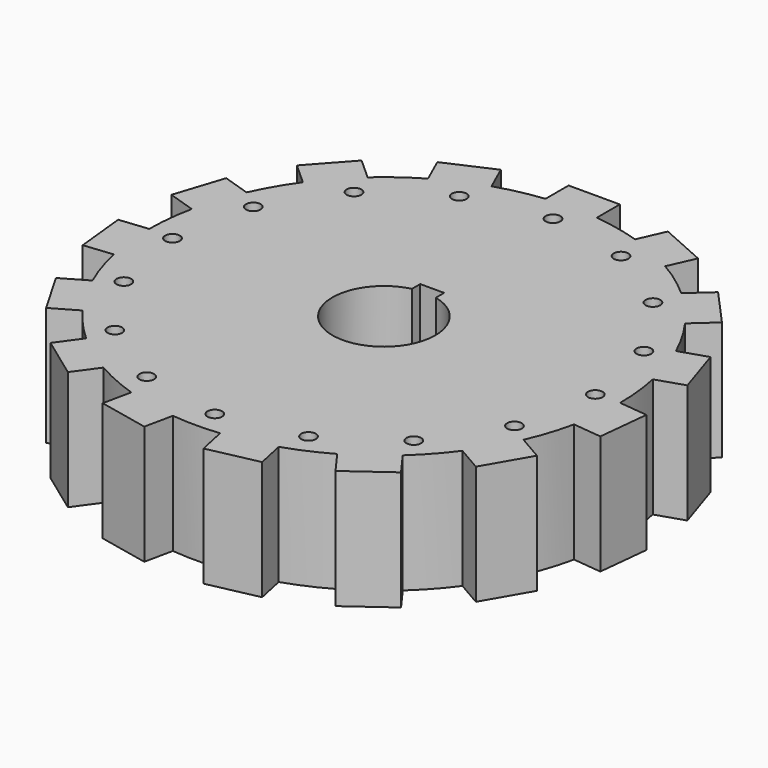
from build123d import *

# Parameters (mm, degrees)
F1_DEPTH = 25.4
F2_R     = 10.9774936207
F3_DEPTH = 49.53
F4_W     = 5.1103145815
F4_H     = 6.5123010427
F5_DEPTH = 48.514
F6_R     = 1.5645792589
F7_DEPTH = 173.3340956271


with BuildPart() as f1:
    # F0 (on Top) → F1 (new body)
    with BuildSketch(Plane.XY):
        with BuildLine():
            ThreePointArc((49.1194638074, -10.6610945165), (49.976383851, -5.3611303095), (50.2631143187, 0))
            ThreePointArc((50.2631143187, 0), (50.2629987037, 0.1078068731), (50.2626518594, 0.2156132503))
            Line((50.2626518594, 0.2156132503), (44.7324481381, 0.7968610833))
            Line((44.7324481381, 0.7968610833), (43.5892600861, -10.0798466835))
            Line((43.5892600861, -10.0798466835), (49.1194638074, -10.6610945165))
        make_face()
        with BuildLine():
            ThreePointArc((50.2626518594, 0.2156132503), (50.2629987037, 0.1078068731), (50.2631143187, 0))
            ThreePointArc((50.2631143187, 0), (49.976383851, -5.3611303095), (49.1194638074, -10.6610945165))
            Line((49.1194638074, -10.6610945165), (55.2430873006, -11.3047132808))
            Line((55.2430873006, -11.3047132808), (56.3862753526, -0.428005514))
            Line((56.3862753526, -0.428005514), (50.2626518594, 0.2156132503))
        make_face()
        with BuildLine():
            Line((44.7324481381, 0.7968610833), (50.2626518594, 0.2156132503))
            ThreePointArc((50.2626518594, 0.2156132503), (49.9877677193, 5.2539260988), (49.2091208382, 10.2392913496))
            Line((49.2091208382, 10.2392913496), (43.9206135564, 8.5209511701))
            Line((43.9206135564, 8.5209511701), (40.5410122038, 18.9222946152))
            Line((40.5410122038, 18.9222946152), (45.8295194856, 20.6406347948))
            ThreePointArc((45.8295194856, 20.6406347948), (43.5291338733, 25.1315571593), (40.7900738253, 29.3692107204))
            Line((40.7900738253, 29.3692107204), (36.6576939366, 25.648399156))
            Line((36.6576939366, 25.648399156), (29.3396669559, 33.7758915046))
            Line((29.3396669559, 33.7758915046), (33.4720468446, 37.496703069))
            ThreePointArc((33.4720468446, 37.496703069), (29.5439173308, 40.663713674), (25.3180524818, 43.4209267467))
            Line((25.3180524818, 43.4209267467), (23.0563260104, 38.3410059194))
            Line((23.0563260104, 38.3410059194), (13.0652267488, 42.7893299085))
            Line((13.0652267488, 42.7893299085), (15.3269532202, 47.8692507357))
            ThreePointArc((15.3269532202, 47.8692507357), (10.4502890838, 49.1647446762), (5.468309857, 49.9647700717))
            Line((5.468309857, 49.9647700717), (5.468309857, 44.4041044423))
            Line((5.468309857, 44.4041044423), (-5.468309857, 44.4041044423))
            Line((-5.468309857, 44.4041044423), (-5.468309857, 49.9647700717))
            ThreePointArc((-5.468309857, 49.9647700717), (-10.4502890838, 49.1647446762), (-15.3269532202, 47.8692507357))
            Line((-15.3269532202, 47.8692507357), (-13.0652267488, 42.7893299085))
            Line((-13.0652267488, 42.7893299085), (-23.0563260104, 38.3410059194))
            Line((-23.0563260104, 38.3410059194), (-25.3180524818, 43.4209267467))
            ThreePointArc((-25.3180524818, 43.4209267467), (-29.5439173308, 40.663713674), (-33.4720468446, 37.496703069))
            Line((-33.4720468446, 37.496703069), (-29.3396669559, 33.7758915046))
            Line((-29.3396669559, 33.7758915046), (-36.6576939366, 25.648399156))
            Line((-36.6576939366, 25.648399156), (-40.7900738253, 29.3692107204))
            ThreePointArc((-40.7900738253, 29.3692107204), (-43.5291338733, 25.1315571593), (-45.8295194856, 20.6406347948))
            Line((-45.8295194856, 20.6406347948), (-40.5410122038, 18.9222946152))
            Line((-40.5410122038, 18.9222946152), (-43.9206135564, 8.5209511701))
            Line((-43.9206135564, 8.5209511701), (-49.2091208382, 10.2392913496))
            ThreePointArc((-49.2091208382, 10.2392913496), (-49.9877677193, 5.2539260988), (-50.2626518594, 0.2156132503))
            Line((-50.2626518594, 0.2156132503), (-44.7324481381, 0.7968610833))
            Line((-44.7324481381, 0.7968610833), (-43.5892600861, -10.0798466835))
            Line((-43.5892600861, -10.0798466835), (-49.1194638074, -10.6610945165))
            ThreePointArc((-49.1194638074, -10.6610945165), (-47.8030624021, -15.5321565147), (-46.0049151049, -20.246689784))
            Line((-46.0049151049, -20.246689784), (-41.1892374078, -17.4663569693))
            Line((-41.1892374078, -17.4663569693), (-35.7209275508, -26.937747473))
            Line((-35.7209275508, -26.937747473), (-40.5366052479, -29.7180802878))
            ThreePointArc((-40.5366052479, -29.7180802878), (-37.3527733183, -33.6325881616), (-33.7925105871, -37.2081562192))
            Line((-33.7925105871, -37.2081562192), (-30.5240333372, -32.7094832249))
            Line((-30.5240333372, -32.7094832249), (-21.6761221277, -39.1378670027))
            Line((-21.6761221277, -39.1378670027), (-24.9445993776, -43.636539997))
            ThreePointArc((-24.9445993776, -43.636539997), (-20.4438503885, -45.9176397728), (-15.7370739936, -47.7359944186))
            Line((-15.7370739936, -47.7359944186), (-14.5809466005, -42.2968426747))
            Line((-14.5809466005, -42.2968426747), (-3.8833182672, -44.5706937712))
            Line((-3.8833182672, -44.5706937712), (-5.0394456603, -50.0098455152))
            ThreePointArc((-5.0394456603, -50.0098455152), (0, -50.2631143187), (5.0394456603, -50.0098455152))
            Line((5.0394456603, -50.0098455152), (3.8833182672, -44.5706937712))
            Line((3.8833182672, -44.5706937712), (14.5809466005, -42.2968426747))
            Line((14.5809466005, -42.2968426747), (15.7370739936, -47.7359944186))
            ThreePointArc((15.7370739936, -47.7359944186), (20.4438503885, -45.9176397728), (24.9445993776, -43.636539997))
            Line((24.9445993776, -43.636539997), (21.6761221277, -39.1378670027))
            Line((21.6761221277, -39.1378670027), (30.5240333372, -32.7094832249))
            Line((30.5240333372, -32.7094832249), (33.7925105871, -37.2081562192))
            ThreePointArc((33.7925105871, -37.2081562192), (37.3527733183, -33.6325881616), (40.5366052479, -29.7180802878))
            Line((40.5366052479, -29.7180802878), (35.7209275508, -26.937747473))
            Line((35.7209275508, -26.937747473), (41.1892374078, -17.4663569693))
            Line((41.1892374078, -17.4663569693), (46.0049151049, -20.246689784))
            ThreePointArc((46.0049151049, -20.246689784), (47.8030624021, -15.5321565147), (49.1194638074, -10.6610945165))
            Line((49.1194638074, -10.6610945165), (43.5892600861, -10.0798466835))
            Line((43.5892600861, -10.0798466835), (44.7324481381, 0.7968610833))
        make_face()
        with BuildLine():
            Line((43.9206135564, 8.5209511701), (49.2091208382, 10.2392913496))
            ThreePointArc((49.2091208382, 10.2392913496), (47.8030624021, 15.5321565147), (45.8295194856, 20.6406347948))
            Line((45.8295194856, 20.6406347948), (40.5410122038, 18.9222946152))
            Line((40.5410122038, 18.9222946152), (43.9206135564, 8.5209511701))
        make_face()
        with BuildLine():
            ThreePointArc((45.8295194856, 20.6406347948), (47.8030624021, 15.5321565147), (49.2091208382, 10.2392913496))
            Line((49.2091208382, 10.2392913496), (55.0651126004, 12.1420184141))
            Line((55.0651126004, 12.1420184141), (51.6855112478, 22.5433618593))
            Line((51.6855112478, 22.5433618593), (45.8295194856, 20.6406347948))
        make_face()
        with BuildLine():
            Line((51.3373401958, -23.3253668457), (46.0049151049, -20.246689784))
            ThreePointArc((46.0049151049, -20.246689784), (43.5291338733, -25.1315571593), (40.5366052479, -29.7180802878))
            Line((40.5366052479, -29.7180802878), (45.8690303388, -32.7967573494))
            Line((45.8690303388, -32.7967573494), (51.3373401958, -23.3253668457))
        make_face()
        with BuildLine():
            ThreePointArc((40.5366052479, -29.7180802878), (43.5291338733, -25.1315571593), (46.0049151049, -20.246689784))
            Line((46.0049151049, -20.246689784), (41.1892374078, -17.4663569693))
            Line((41.1892374078, -17.4663569693), (35.7209275508, -26.937747473))
            Line((35.7209275508, -26.937747473), (40.5366052479, -29.7180802878))
        make_face()
        with BuildLine():
            Line((36.6576939366, 25.648399156), (40.7900738253, 29.3692107204))
            ThreePointArc((40.7900738253, 29.3692107204), (37.3527733183, 33.6325881616), (33.4720468446, 37.496703069))
            Line((33.4720468446, 37.496703069), (29.3396669559, 33.7758915046))
            Line((29.3396669559, 33.7758915046), (36.6576939366, 25.648399156))
        make_face()
        with BuildLine():
            ThreePointArc((33.4720468446, 37.496703069), (37.3527733183, 33.6325881616), (40.7900738253, 29.3692107204))
            Line((40.7900738253, 29.3692107204), (45.3658796807, 33.4892848185))
            Line((45.3658796807, 33.4892848185), (38.0478527, 41.6167771671))
            Line((38.0478527, 41.6167771671), (33.4720468446, 37.496703069))
        make_face()
        with BuildLine():
            Line((37.411712534, -42.1895603454), (33.7925105871, -37.2081562192))
            ThreePointArc((33.7925105871, -37.2081562192), (29.5439173308, -40.663713674), (24.9445993776, -43.636539997))
            Line((24.9445993776, -43.636539997), (28.5638013244, -48.6179441231))
            Line((28.5638013244, -48.6179441231), (37.411712534, -42.1895603454))
        make_face()
        with BuildLine():
            ThreePointArc((24.9445993776, -43.636539997), (29.5439173308, -40.663713674), (33.7925105871, -37.2081562192))
            Line((33.7925105871, -37.2081562192), (30.5240333372, -32.7094832249))
            Line((30.5240333372, -32.7094832249), (21.6761221277, -39.1378670027))
            Line((21.6761221277, -39.1378670027), (24.9445993776, -43.636539997))
        make_face()
        with BuildLine():
            Line((23.0563260104, 38.3410059194), (25.3180524818, 43.4209267467))
            ThreePointArc((25.3180524818, 43.4209267467), (20.4438503885, 45.9176397728), (15.3269532202, 47.8692507357))
            Line((15.3269532202, 47.8692507357), (13.0652267488, 42.7893299085))
            Line((13.0652267488, 42.7893299085), (23.0563260104, 38.3410059194))
        make_face()
        with BuildLine():
            ThreePointArc((15.3269532202, 47.8692507357), (20.4438503885, 45.9176397728), (25.3180524818, 43.4209267467))
            Line((25.3180524818, 43.4209267467), (27.8224740282, 49.0459496372))
            Line((27.8224740282, 49.0459496372), (17.8313747666, 53.4942736262))
            Line((17.8313747666, 53.4942736262), (15.3269532202, 47.8692507357))
        make_face()
        with BuildLine():
            Line((17.0172599003, -53.7587955812), (15.7370739936, -47.7359944186))
            ThreePointArc((15.7370739936, -47.7359944186), (10.4502890838, -49.1647446762), (5.0394456603, -50.0098455152))
            Line((5.0394456603, -50.0098455152), (6.319631567, -56.0326466778))
            Line((6.319631567, -56.0326466778), (17.0172599003, -53.7587955812))
        make_face()
        with BuildLine():
            ThreePointArc((5.0394456603, -50.0098455152), (10.4502890838, -49.1647446762), (15.7370739936, -47.7359944186))
            Line((15.7370739936, -47.7359944186), (14.5809466005, -42.2968426747))
            Line((14.5809466005, -42.2968426747), (3.8833182672, -44.5706937712))
            Line((3.8833182672, -44.5706937712), (5.0394456603, -50.0098455152))
        make_face()
        with BuildLine():
            Line((5.468309857, 44.4041044423), (5.468309857, 49.9647700717))
            ThreePointArc((5.468309857, 49.9647700717), (0, 50.2631143187), (-5.468309857, 49.9647700717))
            Line((-5.468309857, 49.9647700717), (-5.468309857, 44.4041044423))
            Line((-5.468309857, 44.4041044423), (5.468309857, 44.4041044423))
        make_face()
        with BuildLine():
            ThreePointArc((-5.468309857, 49.9647700717), (0, 50.2631143187), (5.468309857, 49.9647700717))
            Line((5.468309857, 49.9647700717), (5.468309857, 56.1221241951))
            Line((5.468309857, 56.1221241951), (-5.468309857, 56.1221241951))
            Line((-5.468309857, 56.1221241951), (-5.468309857, 49.9647700717))
        make_face()
        with BuildLine():
            Line((-6.319631567, -56.0326466778), (-5.0394456603, -50.0098455152))
            ThreePointArc((-5.0394456603, -50.0098455152), (-10.4502890838, -49.1647446762), (-15.7370739936, -47.7359944186))
            Line((-15.7370739936, -47.7359944186), (-17.0172599003, -53.7587955812))
            Line((-17.0172599003, -53.7587955812), (-6.319631567, -56.0326466778))
        make_face()
        with BuildLine():
            ThreePointArc((-15.7370739936, -47.7359944186), (-10.4502890838, -49.1647446762), (-5.0394456603, -50.0098455152))
            Line((-5.0394456603, -50.0098455152), (-3.8833182672, -44.5706937712))
            Line((-3.8833182672, -44.5706937712), (-14.5809466005, -42.2968426747))
            Line((-14.5809466005, -42.2968426747), (-15.7370739936, -47.7359944186))
        make_face()
        with BuildLine():
            Line((-13.0652267488, 42.7893299085), (-15.3269532202, 47.8692507357))
            ThreePointArc((-15.3269532202, 47.8692507357), (-20.4438503885, 45.9176397728), (-25.3180524818, 43.4209267467))
            Line((-25.3180524818, 43.4209267467), (-23.0563260104, 38.3410059194))
            Line((-23.0563260104, 38.3410059194), (-13.0652267488, 42.7893299085))
        make_face()
        with BuildLine():
            ThreePointArc((-25.3180524818, 43.4209267467), (-20.4438503885, 45.9176397728), (-15.3269532202, 47.8692507357))
            Line((-15.3269532202, 47.8692507357), (-17.8313747666, 53.4942736262))
            Line((-17.8313747666, 53.4942736262), (-27.8224740282, 49.0459496372))
            Line((-27.8224740282, 49.0459496372), (-25.3180524818, 43.4209267467))
        make_face()
        with BuildLine():
            Line((-28.5638013244, -48.6179441231), (-24.9445993776, -43.636539997))
            ThreePointArc((-24.9445993776, -43.636539997), (-29.5439173308, -40.663713674), (-33.7925105871, -37.2081562192))
            Line((-33.7925105871, -37.2081562192), (-37.411712534, -42.1895603454))
            Line((-37.411712534, -42.1895603454), (-28.5638013244, -48.6179441231))
        make_face()
        with BuildLine():
            ThreePointArc((-33.7925105871, -37.2081562192), (-29.5439173308, -40.663713674), (-24.9445993776, -43.636539997))
            Line((-24.9445993776, -43.636539997), (-21.6761221277, -39.1378670027))
            Line((-21.6761221277, -39.1378670027), (-30.5240333372, -32.7094832249))
            Line((-30.5240333372, -32.7094832249), (-33.7925105871, -37.2081562192))
        make_face()
        with BuildLine():
            Line((-29.3396669559, 33.7758915046), (-33.4720468446, 37.496703069))
            ThreePointArc((-33.4720468446, 37.496703069), (-37.3527733183, 33.6325881616), (-40.7900738253, 29.3692107204))
            Line((-40.7900738253, 29.3692107204), (-36.6576939366, 25.648399156))
            Line((-36.6576939366, 25.648399156), (-29.3396669559, 33.7758915046))
        make_face()
        with BuildLine():
            ThreePointArc((-40.7900738253, 29.3692107204), (-37.3527733183, 33.6325881616), (-33.4720468446, 37.496703069))
            Line((-33.4720468446, 37.496703069), (-38.0478527, 41.6167771671))
            Line((-38.0478527, 41.6167771671), (-45.3658796807, 33.4892848185))
            Line((-45.3658796807, 33.4892848185), (-40.7900738253, 29.3692107204))
        make_face()
        with BuildLine():
            Line((-45.8690303388, -32.7967573494), (-40.5366052479, -29.7180802878))
            ThreePointArc((-40.5366052479, -29.7180802878), (-43.5291338733, -25.1315571593), (-46.0049151049, -20.246689784))
            Line((-46.0049151049, -20.246689784), (-51.3373401958, -23.3253668457))
            Line((-51.3373401958, -23.3253668457), (-45.8690303388, -32.7967573494))
        make_face()
        with BuildLine():
            ThreePointArc((-46.0049151049, -20.246689784), (-43.5291338733, -25.1315571593), (-40.5366052479, -29.7180802878))
            Line((-40.5366052479, -29.7180802878), (-35.7209275508, -26.937747473))
            Line((-35.7209275508, -26.937747473), (-41.1892374078, -17.4663569693))
            Line((-41.1892374078, -17.4663569693), (-46.0049151049, -20.246689784))
        make_face()
        with BuildLine():
            Line((-40.5410122038, 18.9222946152), (-45.8295194856, 20.6406347948))
            ThreePointArc((-45.8295194856, 20.6406347948), (-47.8030624021, 15.5321565147), (-49.2091208382, 10.2392913496))
            Line((-49.2091208382, 10.2392913496), (-43.9206135564, 8.5209511701))
            Line((-43.9206135564, 8.5209511701), (-40.5410122038, 18.9222946152))
        make_face()
        with BuildLine():
            ThreePointArc((-49.2091208382, 10.2392913496), (-47.8030624021, 15.5321565147), (-45.8295194856, 20.6406347948))
            Line((-45.8295194856, 20.6406347948), (-51.6855112478, 22.5433618593))
            Line((-51.6855112478, 22.5433618593), (-55.0651126004, 12.1420184141))
            Line((-55.0651126004, 12.1420184141), (-49.2091208382, 10.2392913496))
        make_face()
        with BuildLine():
            Line((-55.2430873006, -11.3047132808), (-49.1194638074, -10.6610945165))
            ThreePointArc((-49.1194638074, -10.6610945165), (-49.9877677193, -5.2539260988), (-50.2626518594, 0.2156132503))
            Line((-50.2626518594, 0.2156132503), (-56.3862753526, -0.428005514))
            Line((-56.3862753526, -0.428005514), (-55.2430873006, -11.3047132808))
        make_face()
        with BuildLine():
            ThreePointArc((-50.2626518594, 0.2156132503), (-49.9877677193, -5.2539260988), (-49.1194638074, -10.6610945165))
            Line((-49.1194638074, -10.6610945165), (-43.5892600861, -10.0798466835))
            Line((-43.5892600861, -10.0798466835), (-44.7324481381, 0.7968610833))
            Line((-44.7324481381, 0.7968610833), (-50.2626518594, 0.2156132503))
        make_face()
    extrude(amount=F1_DEPTH)

    # F2 (on face) → F3 (cut)
    with BuildSketch(Plane(origin=(0, 0, 0), x_dir=(1, 0, 0), z_dir=(0, 0, -1))):
        Circle(F2_R)
    extrude(amount=-F3_DEPTH, mode=Mode.SUBTRACT)

    # F4 (on face) → F5 (cut)
    with BuildSketch(Plane.XY.offset(25.4)):
        with Locations((0, 9.6324812621)):
            Rectangle(F4_W, F4_H)
    extrude(amount=-F5_DEPTH, mode=Mode.SUBTRACT)

    # F6 (on Top) → F7 (cut)
    with BuildSketch(Plane.XY):
        with Locations((0, 45.1227985322)):
            Circle(F6_R)
        with Locations((-17.2677474202, 41.6880300136)):
            Circle(F6_R)
        with Locations((-31.9066368283, 31.9066368283)):
            Circle(F6_R)
        with Locations((-41.6880300136, 17.2677474202)):
            Circle(F6_R)
        with Locations((-45.1227985322, 0)):
            Circle(F6_R)
        with Locations((-41.6880300136, -17.2677474202)):
            Circle(F6_R)
        with Locations((-31.9066368283, -31.9066368283)):
            Circle(F6_R)
        with Locations((-17.2677474202, -41.6880300136)):
            Circle(F6_R)
        with Locations((0, -45.1227985322)):
            Circle(F6_R)
        with Locations((17.2677474202, -41.6880300136)):
            Circle(F6_R)
        with Locations((31.9066368283, -31.9066368283)):
            Circle(F6_R)
        with Locations((41.6880300136, -17.2677474202)):
            Circle(F6_R)
        with Locations((45.1227985322, 0)):
            Circle(F6_R)
        with Locations((41.6880300136, 17.2677474202)):
            Circle(F6_R)
        with Locations((31.9066368283, 31.9066368283)):
            Circle(F6_R)
        with Locations((17.2677474202, 41.6880300136)):
            Circle(F6_R)
    extrude(amount=F7_DEPTH, mode=Mode.SUBTRACT)


solid = f1.part
